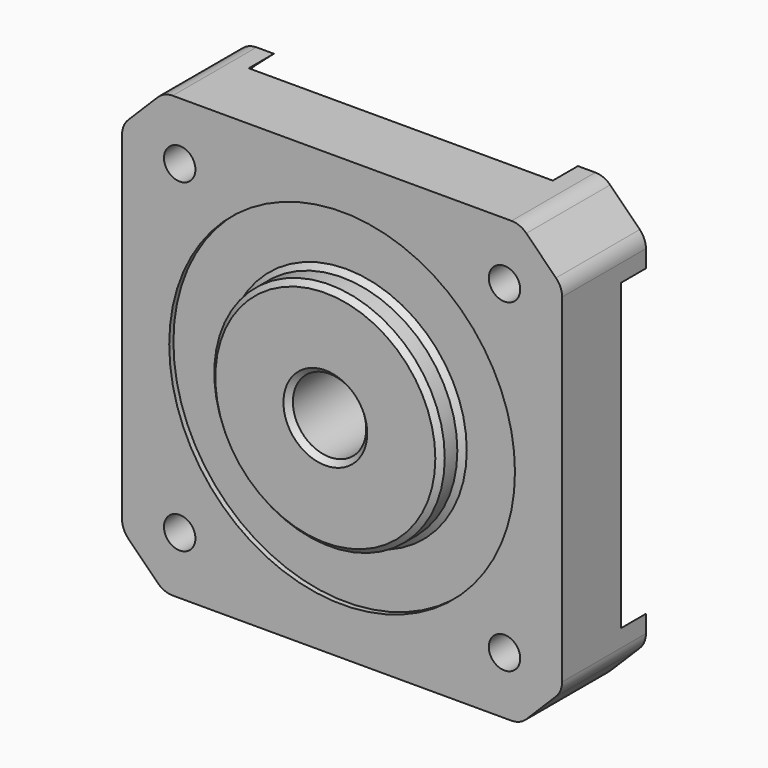
from build123d import *

# Parameters (mm, degrees)
F0_W      = 42
F0_H      = 42
F1_DEPTH  = 10
F2_SIZE   = 4
F3_R      = 16.5
F4_DEPTH  = 0.5
F5_R      = 11
F6_DEPTH  = 2.5
F7_R      = 3.5
F8_DEPTH  = 12.001
F9_R      = 2
F10_SIZE  = 0.5
F12_DEPTH = 3
F13_R     = 1.5
F14_DEPTH = 10.001


with BuildPart() as f1:
    # F0 (on Front) → F1 (new body)
    with BuildSketch(Plane.XZ):
        Rectangle(F0_W, F0_H)
    extrude(amount=F1_DEPTH)

    # F2
    f2_edges = [f1.edges().sort_by_distance(p)[0] for p in [
        (-21, -5, 21),
        (21, -5, 21),
        (21, -5, -21),
        (-21, -5, -21),
    ]]
    chamfer(f2_edges, length=F2_SIZE)

    # F3 (on face) → F4 (cut)
    with BuildSketch(Plane.XZ.offset(10)):
        Circle(F3_R)
    extrude(amount=-F4_DEPTH, mode=Mode.SUBTRACT)

    # F5 (on face) → F6 (join)
    with BuildSketch(Plane.XZ.offset(9.5)):
        Circle(F5_R)
    extrude(amount=F6_DEPTH)

    # F7 (on face) → F8 (cut, through all)
    with BuildSketch(Plane.XZ.offset(12)):
        Circle(F7_R)
    extrude(amount=-F8_DEPTH, mode=Mode.SUBTRACT)

    # F9
    f9_edges = [f1.edges().sort_by_distance(p)[0] for p in [
        (-17, -5, 21),
        (17, -5, 21),
        (21, -5, 17),
        (21, -5, -17),
        (17, -5, -21),
        (-17, -5, -21),
        (-21, -5, -17),
        (-21, -5, 17),
    ]]
    fillet(f9_edges, radius=F9_R)

    # F10
    f10_edges = [f1.edges().sort_by_distance(p)[0] for p in [
        (-11, -12, 0),
        (-3.5, -12, 0),
        (-11, -9.5, 0),
    ]]
    chamfer(f10_edges, length=F10_SIZE)

    # F11 (on face) → F12 (cut)
    with BuildSketch(Plane(origin=(0, 0, 0), x_dir=(-1, 0, 0), z_dir=(0, 1, 0))):
        with BuildLine():
            ThreePointArc((-14.5105618091, 21), (-17.8908729653, 17.8908729653), (-21, 14.5105618091))
            Line((-21, 14.5105618091), (-21, -14.5105618091))
            ThreePointArc((-21, -14.5105618091), (-17.8908729653, -17.8908729653), (-14.5105618091, -21))
            Line((-14.5105618091, -21), (14.5105618091, -21))
            ThreePointArc((14.5105618091, -21), (17.8908729653, -17.8908729653), (21, -14.5105618091))
            Line((21, -14.5105618091), (21, 14.5105618091))
            ThreePointArc((21, 14.5105618091), (17.8908729653, 17.8908729653), (14.5105618091, 21))
            Line((14.5105618091, 21), (-14.5105618091, 21))
        make_face()
    extrude(amount=-F12_DEPTH, mode=Mode.SUBTRACT)

    # F13 (on face) → F14 (cut, through all)
    with BuildSketch(Plane.XZ.offset(10)):
        with Locations((-15.5, 15.5)):
            Circle(F13_R)
        with Locations((-15.5, -15.5)):
            Circle(F13_R)
        with Locations((15.5, -15.5)):
            Circle(F13_R)
        with Locations((15.5, 15.5)):
            Circle(F13_R)
    extrude(amount=-F14_DEPTH, mode=Mode.SUBTRACT)


solid = f1.part
